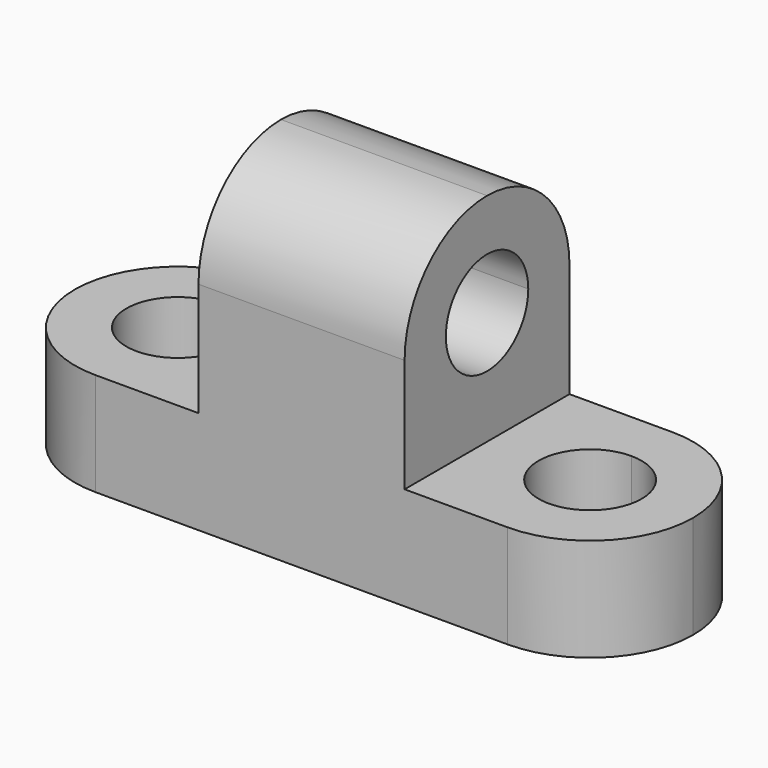
from build123d import *

# Parameters (mm, degrees)
F1_DEPTH  = 25.4
F3_DEPTH  = 25.4
F5_DEPTH  = 25.4
F7_DEPTH  = 25.4
F9_DEPTH  = 25.4
F11_DEPTH = 25.4
F13_DEPTH = 25.4
F15_DEPTH = 25.4


with BuildPart() as f1:
    # F0 (on Front) → F1 (new body)
    with BuildSketch(Plane.XZ):
        Polygon((-49.976994, -0.463082), (-49.976994, -13.163082), (26.223006, -13.163082), (26.223006, -0.463082), (0.823006, -0.463082), (0.823006, 26.227836), (-24.576994, 26.227836), (-24.576994, -0.463082), align=None)
    extrude(amount=F1_DEPTH)

    # F2 (on face) → F3 (cut)
    with BuildSketch(Plane.YZ.offset(0.823006)):
        with BuildLine():
            Line((-25.4, 26.227836), (-25.4, 13.527836))
            ThreePointArc((-25.4, 13.527836), (-21.680256, 22.508093), (-12.7, 26.227836))
            Line((-12.7, 26.227836), (-25.4, 26.227836))
        make_face()
        with BuildLine():
            Line((0, 26.227836), (-12.7, 26.227836))
            ThreePointArc((-12.7, 26.227836), (-3.719744, 22.508093), (0, 13.527836))
            Line((0, 13.527836), (0, 26.227836))
        make_face()
    extrude(amount=-F3_DEPTH, mode=Mode.SUBTRACT)

    # F4 (on face) → F5 (cut)
    with BuildSketch(Plane.XY.offset(-0.463082)):
        with BuildLine():
            Line((26.223006, 0), (13.523006, 0))
            ThreePointArc((13.523006, 0), (22.503262, -3.719744), (26.223006, -12.7))
            Line((26.223006, -12.7), (26.223006, 0))
        make_face()
        with BuildLine():
            Line((26.223006, -25.4), (26.223006, -12.7))
            ThreePointArc((26.223006, -12.7), (22.503262, -21.680256), (13.523006, -25.4))
            Line((13.523006, -25.4), (26.223006, -25.4))
        make_face()
    extrude(amount=-F5_DEPTH, mode=Mode.SUBTRACT)

    # F6 (on face) → F7 (cut)
    with BuildSketch(Plane.XY.offset(-0.463082)):
        with BuildLine():
            ThreePointArc((-37.276994, -25.4), (-46.25725, -21.680256), (-49.976994, -12.7))
            Line((-49.976994, -12.7), (-49.976994, -25.4))
            Line((-49.976994, -25.4), (-37.276994, -25.4))
        make_face()
    extrude(amount=-F7_DEPTH, mode=Mode.SUBTRACT)

    # F8 (on face) → F9 (cut)
    with BuildSketch(Plane.XY.offset(-0.463082)):
        with BuildLine():
            ThreePointArc((-37.276994, -25.4), (-46.25725, -21.680256), (-49.976994, -12.7))
            Line((-49.976994, -12.7), (-49.976994, -25.4))
            Line((-49.976994, -25.4), (-37.276994, -25.4))
        make_face()
        with BuildLine():
            ThreePointArc((-49.976994, -12.7), (-46.25725, -3.719744), (-37.276994, 0))
            Line((-37.276994, 0), (-49.976994, 0))
            Line((-49.976994, 0), (-49.976994, -12.7))
        make_face()
    extrude(amount=-F9_DEPTH, mode=Mode.SUBTRACT)

    # F10 (on face) → F11 (cut)
    with BuildSketch(Plane.XY.offset(-0.463082)):
        with BuildLine():
            ThreePointArc((-37.276994, -6.35), (-41.767122, -17.190128), (-30.926994, -12.7))
            ThreePointArc((-30.926994, -12.7), (-32.786866, -8.209872), (-37.276994, -6.35))
        make_face()
    extrude(amount=-F11_DEPTH, mode=Mode.SUBTRACT)

    # F12 (on face) → F13 (cut)
    with BuildSketch(Plane.XY.offset(-0.463082)):
        with BuildLine():
            ThreePointArc((13.523006, -6.35), (9.032878, -17.190128), (19.873006, -12.7))
            ThreePointArc((19.873006, -12.7), (18.013134, -8.209872), (13.523006, -6.35))
        make_face()
    extrude(amount=-F13_DEPTH, mode=Mode.SUBTRACT)

    # F14 (on face) → F15 (cut)
    with BuildSketch(Plane.YZ.offset(0.823006)):
        with BuildLine():
            ThreePointArc((-12.80825, 19.876914), (-17.151691, 8.999598), (-6.35, 13.527836))
            ThreePointArc((-6.35, 13.527836), (-8.248309, 18.056075), (-12.80825, 19.876914))
        make_face()
    extrude(amount=-F15_DEPTH, mode=Mode.SUBTRACT)


solid = f1.part
